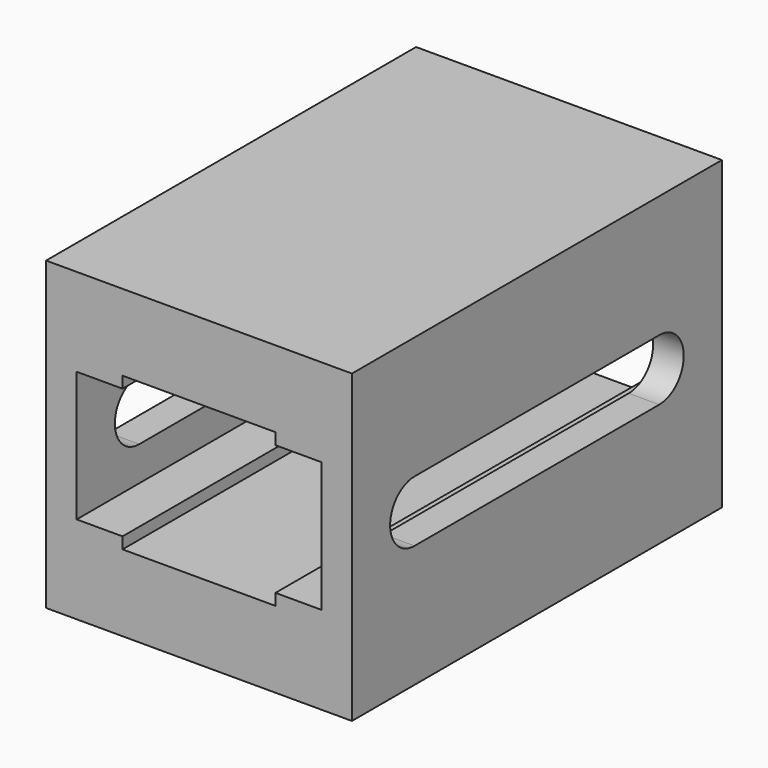
from build123d import *

# Parameters (mm, degrees)
F0_W     = 63.5
F0_H     = 63.5
F1_DEPTH = 96.012
F3_DEPTH = 73.914


with BuildPart() as f1:
    # F0 (on Front) → F1 (new body)
    with BuildSketch(Plane.XZ):
        Rectangle(F0_W, F0_H)
        Polygon((-15.875, 15.875), (15.875, 15.875), (15.875, 13.49375), (25.4, 13.49375), (25.4, -13.49375), (15.875, -13.49375), (15.875, -15.875), (-15.875, -15.875), (-15.875, -13.49375), (-25.4, -13.49375), (-25.4, 13.49375), (-15.875, 13.49375), align=None, mode=Mode.SUBTRACT)
    extrude(amount=F1_DEPTH)

    # F2 (on face) → F3 (cut)
    with BuildSketch(Plane.YZ.offset(31.75)):
        with BuildLine():
            ThreePointArc((-79.756, 6.35), (-86.106, 0), (-79.756, -6.35))
            Line((-79.756, -6.35), (-16.256, -6.35))
            ThreePointArc((-16.256, -6.35), (-9.906, 0), (-16.256, 6.35))
            Line((-16.256, 6.35), (-79.756, 6.35))
        make_face()
    extrude(amount=-F3_DEPTH, mode=Mode.SUBTRACT)


solid = f1.part
